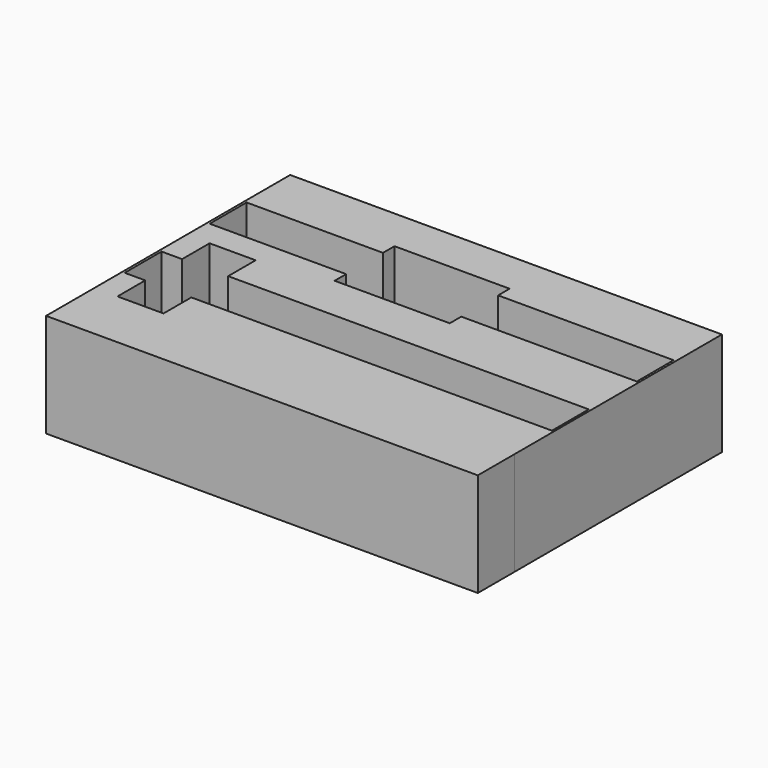
from build123d import *

# Parameters (mm, degrees)
F1_DEPTH = 18


with BuildPart() as f1:
    # F0 (on Top) → F1 (new body)
    with BuildSketch(Plane.XY):
        Polygon((-37.500001, -30.499993), (37.499999, -30.499993), (37.5, -22.5), (37.5, 22.5), (-37.5, 22.5), (-37.5, -22.5), align=None)
        Polygon((-25.5, -13.967723), (-25.5, -20), (-33.5, -20), (-33.5, -13.967723), (-37.070915, -13.967723), (-37.070915, -5.967723), (-33.5, -5.967723), (-33.5, 0), (-25.5, 0), (-25.5, -5.967723), (37.135621, -5.967723), (37.147604, -13.967723), align=None, mode=Mode.SUBTRACT)
        Polygon((-13.379957, 12.5), (-13.379957, 15), (6.620043, 15), (6.620043, 12.5), (37.107959, 12.5), (37.119942, 4.5), (6.620043, 4.5), (6.620043, 2), (-13.379957, 2), (-13.379957, 4.5), (-37.070915, 4.5), (-37.070915, 12.5), align=None, mode=Mode.SUBTRACT)
    extrude(amount=F1_DEPTH)


solid = f1.part
